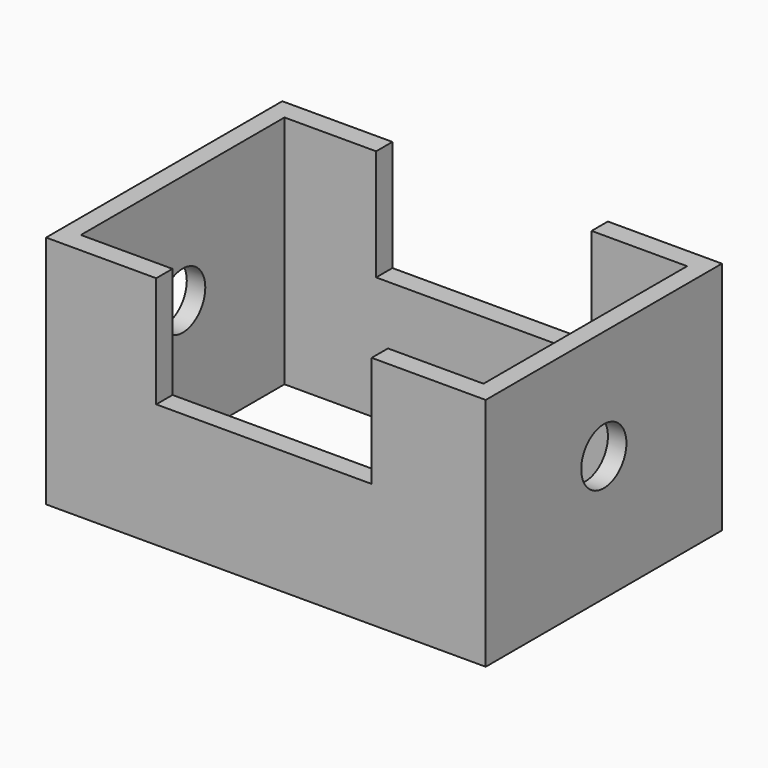
from build123d import *

# Parameters (mm, degrees)
F0_W     = 142.606944
F0_H     = 95.77182
F0_W_2   = 130.597934
F0_H_2   = 82.56191
F1_DEPTH = 76.2
F2_W     = 69.881048
F2_H     = 36.019358
F3_DEPTH = 127
F4_R     = 9.161786
F5_DEPTH = 177.8


with BuildPart() as f1:
    # F0 (on Top) → F1 (new body)
    with BuildSketch(Plane.XY):
        Rectangle(F0_W, F0_H)
        Rectangle(F0_W_2, F0_H_2, mode=Mode.SUBTRACT)
    extrude(amount=F1_DEPTH)

    # F2 (on face) → F3 (cut)
    with BuildSketch(Plane.XZ.offset(47.88591)):
        with Locations((-0.636155, 58.190321)):
            Rectangle(F2_W, F2_H)
    extrude(amount=-F3_DEPTH, mode=Mode.SUBTRACT)

    # F4 (on face) → F5 (cut)
    with BuildSketch(Plane.YZ.offset(71.303472)):
        with Locations((0, 40.680505)):
            Circle(F4_R)
    extrude(amount=-F5_DEPTH, mode=Mode.SUBTRACT)


solid = f1.part
